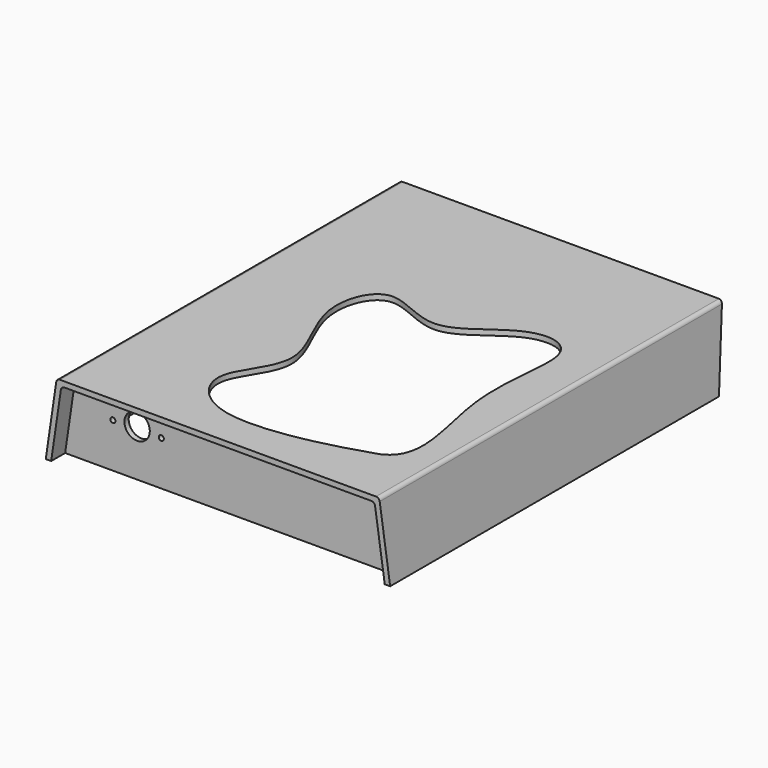
from build123d import *

# Parameters (mm, degrees)
PAD_DEPTH           = 270
POCKET_DEPTH        = 108.501
POCKET_DEPTH_BACK   = 108.501
POCKET001_DEPTH     = 11
POCKET002_DEPTH     = 265.62
FILLET_R            = 2.38
SKETCH004_R         = 4.85
PAD001_DEPTH        = 32
SKETCH005_R         = 4.85
PAD002_DEPTH        = 32
SKETCH006_W         = 0.2
SKETCH006_H         = 2
POCKET003_DEPTH     = 5
SKETCH007_R         = 1.6
POCKET004_DEPTH     = 259.001
LINEARPATTERN_COUNT = 2
LINEARPATTERN_PITCH = 30.5
SKETCH008_R         = 8
POCKET005_DEPTH     = 259.001
POCKET006_DEPTH     = 46.901


with BuildPart() as part:
    # Sketch → Pad (new body)
    with BuildSketch(Plane.XZ):
        Polygon((-108.5, 0), (108.5, 0), (101.616226, 46.9), (-101.616226, 46.9), align=None)
    extrude(amount=-PAD_DEPTH)

    # Sketch001 → Pocket (cut, two sides)
    with BuildSketch(Plane.YZ) as pocket_sk:
        Polygon((270, 46.9), (258.956516, 0), (270, 0), align=None)
    extrude(amount=-POCKET_DEPTH, mode=Mode.SUBTRACT)
    extrude(pocket_sk.sketch, amount=POCKET_DEPTH_BACK, mode=Mode.SUBTRACT)

    # Sketch002 (on Face2 of Pocket) → Pocket001 (cut)
    with BuildSketch(Plane.XZ):
        Polygon((-105.083786, 0), (-98.696113, 43.52), (98.696113, 43.52), (105.083786, 0), align=None)
    extrude(amount=-POCKET001_DEPTH, mode=Mode.SUBTRACT)

    # Sketch003 (on DatumPlane) → Pocket002 (cut)
    with BuildSketch(Plane.XZ.offset(-280)):
        Polygon((-105.083786, 0), (-98.696113, 43.52), (98.696113, 43.52), (105.083786, 0), align=None)
    extrude(amount=POCKET002_DEPTH, mode=Mode.SUBTRACT)

    # Fillet
    fillet_edges = [part.edges().sort_by_distance(p)[0] for p in [
        (101.616226, 135, 46.9),
        (-101.616226, 135, 46.9),
        (-98.696113, 5.5, 43.52),
        (98.696113, 5.5, 43.52),
        (-98.696113, 141.792058, 43.52),
        (98.696113, 141.792058, 43.52),
    ]]
    fillet(fillet_edges, radius=FILLET_R)

    # Sketch004 (on Face19 of Fillet) → Pad001 (join)
    with BuildSketch(Plane(origin=(0, 0, 43.52), x_dir=(1, 0, 0), z_dir=(0, 0, -1))):
        with Locations((89.9, -82.88)):
            Circle(SKETCH004_R)
    pad001 = extrude(amount=PAD001_DEPTH)

    # Mirrored: Pad001 across YZ
    add(pad001.mirror(Plane.YZ))

    # Sketch005 (on Face19 of Mirrored) → Pad002 (join)
    with BuildSketch(Plane(origin=(0, 0, 43.52), x_dir=(1, 0, 0), z_dir=(0, 0, -1))):
        with Locations((89.9, -199.38)):
            Circle(SKETCH005_R)
    pad002 = extrude(amount=PAD002_DEPTH)

    # Mirrored001: Pad002 across YZ
    add(pad002.mirror(Plane.YZ))

    # Sketch006 (on Face1 of Mirrored001) → Pocket003 (cut)
    with BuildSketch(Plane.XZ):
        with Locations((-108.4, 1)):
            Rectangle(SKETCH006_W, SKETCH006_H)
    extrude(amount=-POCKET003_DEPTH, mode=Mode.SUBTRACT)

    # Sketch007 (on Face16 of Pocket003) → Pocket004 (cut, through all)
    with BuildSketch(Plane.XZ.offset(-11)):
        with Locations((-75, 28)):
            Circle(SKETCH007_R)
    pocket004 = extrude(amount=-POCKET004_DEPTH, mode=Mode.SUBTRACT)

    # LinearPattern: Pocket004 ×2
    with Locations(*[(i * LINEARPATTERN_PITCH, 0, 0) for i in range(1, LINEARPATTERN_COUNT)]):
        add(pocket004, mode=Mode.SUBTRACT)

    # Sketch008 (on Face16 of LinearPattern) → Pocket005 (cut, through all)
    with BuildSketch(Plane.XZ.offset(-11)):
        with Locations((-59.75, 29.495)):
            Circle(SKETCH008_R)
    extrude(amount=-POCKET005_DEPTH, mode=Mode.SUBTRACT)

    # Sketch009 (on Face4 of Pocket005) → Pocket006 (cut, through all)
    with BuildSketch(Plane(origin=(0, 0, 46.9), x_dir=(-1, 0, 0), z_dir=(0, 0, 1))):
        with BuildLine():
            add(Edge.make_bspline(
                [(-72.348312, -36.232048), (-46.441032, -27.725185), (-9.320162, -19.991676), (28.599676, -24.141003), (49.227497, -54.658081), (12.519243, -87.269521), (51.560257, -139.156158), (32.898109, -185.033951), (-9.091726, -149.005615), (-45.379246, -190.736267), (-85.813911, -183.737961), (-64.300598, -112.718109), (-93.84581, -44.779697), (-72.348312, -36.232048)],
                knots=[0, 0, 0, 0, 0.090909, 0.181818, 0.272727, 0.363636, 0.454545, 0.545455, 0.636364, 0.727273, 0.818182, 0.909091, 1, 1, 1, 1], degree=3))
        make_face()
    extrude(amount=-POCKET006_DEPTH, mode=Mode.SUBTRACT)


solid = part.part
